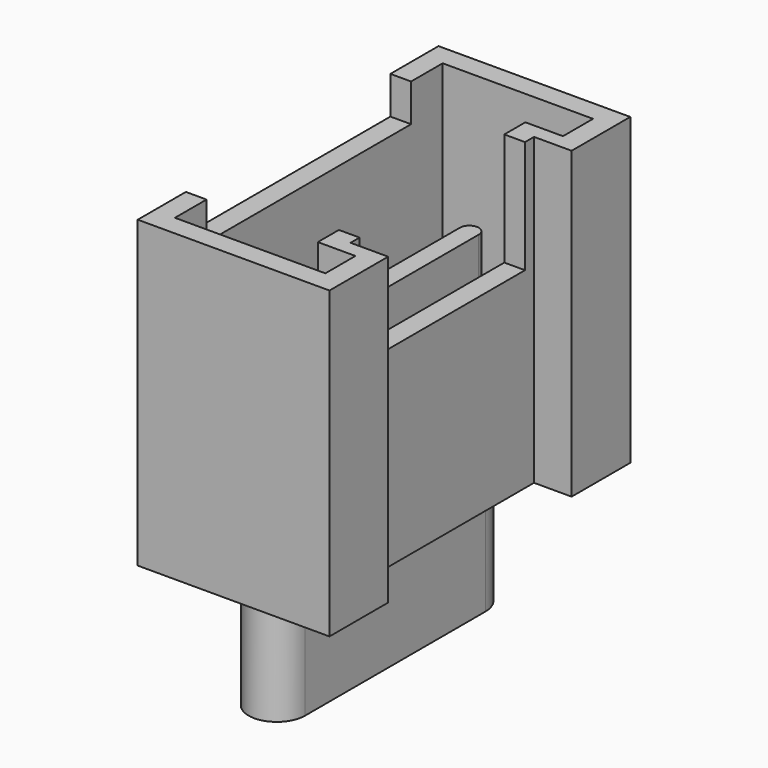
from build123d import *

# Parameters (mm, degrees)
PAD010_DEPTH            = 8.1
POCKET007_DEPTH         = 7
SKETCH024_W             = 6.8
SKETCH024_H             = 5
POCKET009_DEPTH         = 1
SKETCH018_W             = 5.5
SKETCH018_H             = 3
POCKET010_DEPTH         = 3
PAD013_DEPTH            = 4
PAD011_DEPTH            = 3.4
BODY014_PLACEMENT_ANGLE = 90


with BuildPart() as part:
    # Sketch022 → Pad010 (new body)
    with BuildSketch(Plane.XY):
        Polygon((-5, 0), (-3.05, 0), (-3.05, 1), (3.05, 1), (3.05, 0), (5, 0), (5, 5.1), (-5, 5.1), align=None)
    extrude(amount=PAD010_DEPTH)

    # Sketch021 (on Face10 of Pad010) → Pocket007 (cut)
    with BuildSketch(Plane.XY.offset(8.1)):
        Polygon((-4.45, 0.55), (-3.45, 0.55), (-3.45, 1.55), (3.45, 1.55), (3.45, 0.55), (4.45, 0.55), (4.45, 4.55), (-4.45, 4.55), align=None)
    extrude(amount=-POCKET007_DEPTH, mode=Mode.SUBTRACT)

    # Sketch024 (on Face5 of Pocket007) → Pocket009 (cut)
    with BuildSketch(Plane.XY.offset(8.1)):
        with Locations((0, 5.5)):
            Rectangle(SKETCH024_W, SKETCH024_H)
    extrude(amount=-POCKET009_DEPTH, mode=Mode.SUBTRACT)

    # Sketch018 (on Face5 of Pocket009) → Pocket010 (cut)
    with BuildSketch(Plane.XY.offset(8.1)):
        with Locations((0, 1.5)):
            Rectangle(SKETCH018_W, SKETCH018_H)
    extrude(amount=-POCKET010_DEPTH, mode=Mode.SUBTRACT)

    # Sketch023 (on Face26 of Pocket010) → Pad013 (join)
    with BuildSketch(Plane.XY.offset(1.1)):
        with BuildLine():
            ThreePointArc((-3.4, 3.25), (-3.65, 3), (-3.4, 2.75))
            Line((-3.4, 2.75), (3.4, 2.75))
            ThreePointArc((3.4, 2.75), (3.65, 3), (3.4, 3.25))
            Line((-3.4, 3.25), (3.4, 3.25))
        make_face()
    extrude(amount=PAD013_DEPTH)

    # Sketch019 → Pad011 (join)
    with BuildSketch(Plane.XY):
        with BuildLine():
            ThreePointArc((-3, 3.75), (-3.75, 3), (-3, 2.25))
            Line((-3, 2.25), (3, 2.25))
            ThreePointArc((3, 2.25), (3.75, 3), (3, 3.75))
            Line((-3, 3.75), (3, 3.75))
        make_face()
    extrude(amount=-PAD011_DEPTH)


with BuildPart() as part_1:
    # Body014 placement: moved
    add(part.part.moved(Location((-13.8, 0, 1.6))).rotate(Axis((-13.8, 0, 1.6), (0, 0, 1)), BODY014_PLACEMENT_ANGLE))


with BuildPart() as part_2:
    # Clone010 placement: moved
    add(part_1.part.moved(Location((-0.2, 0, 0))))


with BuildPart() as part_3:
    # Body017 placement: moved
    add(part_2.part.moved(Location((18.8, 0, 0))))


solid = part_3.part
